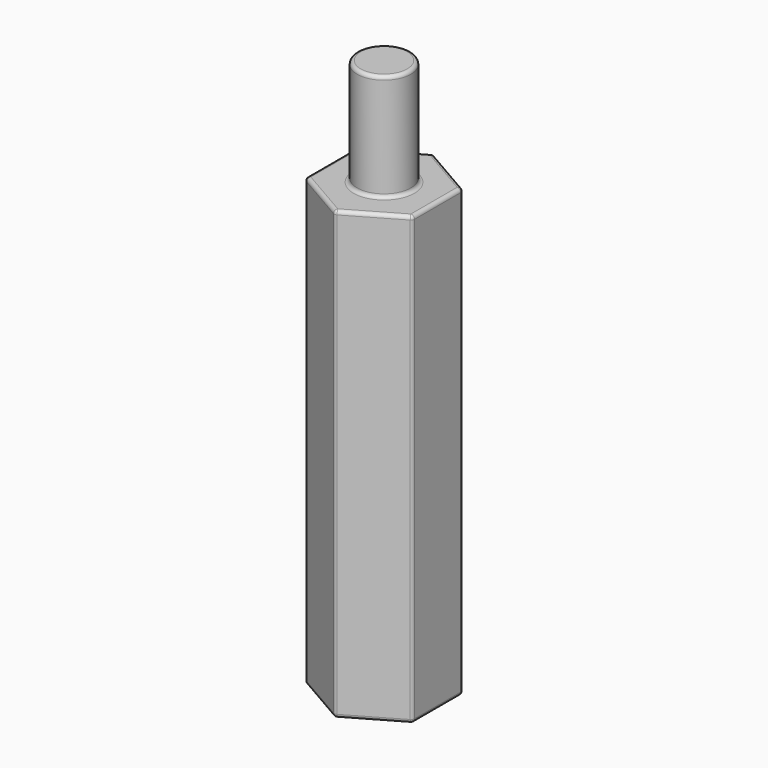
from build123d import *

# Parameters (mm, degrees)
F1_DEPTH = 25
F2_R     = 1.5
F3_DEPTH = 6
F4_R     = 1.5
F5_DEPTH = 8
F6_R     = 0.2


with BuildPart() as f1:
    # F0 (on Top) → F1 (new body)
    with BuildSketch(Plane.XY):
        Polygon((3, 1.7320508076), (0, 3.4641016151), (-3, 1.7320508076), (-3, -1.7320508076), (0, -3.4641016151), (3, -1.7320508076), align=None)
    extrude(amount=F1_DEPTH)

    # F2 (on face) → F3 (join)
    with BuildSketch(Plane.XY.offset(25)):
        Circle(F2_R)
    extrude(amount=F3_DEPTH)

    # F4 (on face) → F5 (cut)
    with BuildSketch(Plane(origin=(0, 0, 0), x_dir=(1, 0, 0), z_dir=(0, 0, -1))):
        Circle(F4_R)
    extrude(amount=-F5_DEPTH, mode=Mode.SUBTRACT)

    # F6
    f6_edges = [f1.edges().sort_by_distance(p)[0] for p in [
        (1.5, -2.598076, 0),
        (-1.5, -2.598076, 0),
        (3, 0, 0),
        (-3, 0, 0),
        (1.5, 2.598076, 0),
        (-1.5, 2.598076, 0),
        (-1.5, 0, 0),
        (1.5, -2.598076, 25),
        (-1.5, -2.598076, 25),
        (3, 0, 25),
        (-3, 0, 25),
        (1.5, 2.598076, 25),
        (-1.5, 2.598076, 25),
        (-1.5, 0, 25),
        (-1.5, 0, 31),
        (-3, -1.732051, 12.5),
        (0, -3.464102, 12.5),
        (-3, 1.732051, 12.5),
        (0, 3.464102, 12.5),
        (3, 1.732051, 12.5),
        (3, -1.732051, 12.5),
    ]]
    fillet(f6_edges, radius=F6_R)


solid = f1.part
